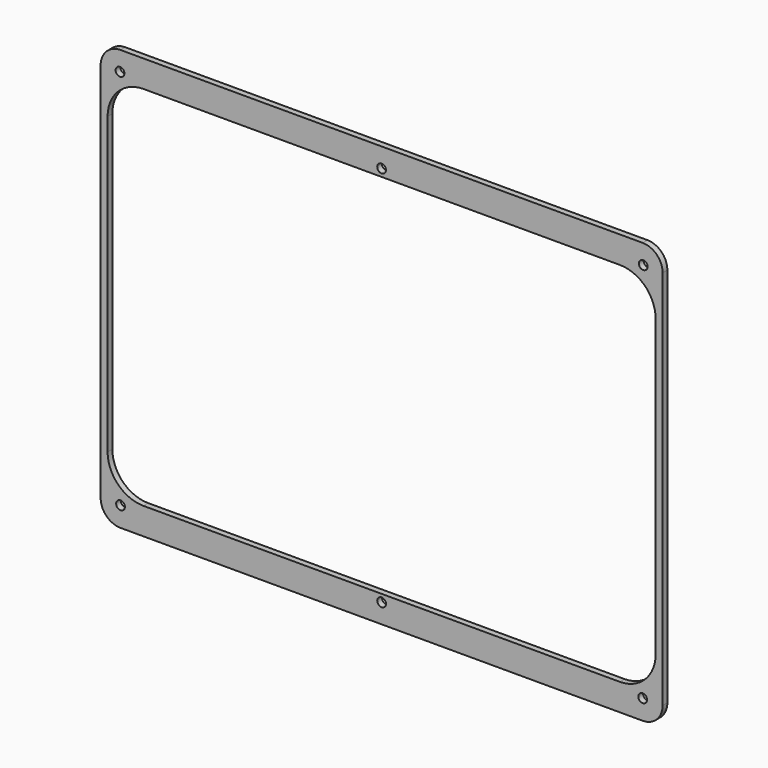
from build123d import *

# Parameters (mm, degrees)
F1_DEPTH = 3
F2_D     = 4.4


with BuildPart() as f1:
    # F0 (on Front) → F1 (new body)
    with BuildSketch(Plane.XZ):
        with BuildLine():
            Line((-131.25, -105.75), (131.25, -105.75))
            ThreePointArc((131.25, -105.75), (138.3210678119, -102.8210678119), (141.25, -95.75))
            Line((141.25, -95.75), (141.25, 95.75))
            ThreePointArc((141.25, 95.75), (138.3210678119, 102.8210678119), (131.25, 105.75))
            Line((131.25, 105.75), (-131.25, 105.75))
            ThreePointArc((-131.25, 105.75), (-138.3210678119, 102.8210678119), (-141.25, 95.75))
            Line((-141.25, 95.75), (-141.25, -95.75))
            ThreePointArc((-141.25, -95.75), (-138.3210678119, -102.8210678119), (-131.25, -105.75))
        make_face()
        with BuildLine():
            ThreePointArc((137.75, -74.25), (132.4779220614, -86.9779220614), (119.75, -92.25))
            Line((119.75, -92.25), (-119.75, -92.25))
            ThreePointArc((-119.75, -92.25), (-132.4779220614, -86.9779220614), (-137.75, -74.25))
            Line((-137.75, -74.25), (-137.75, 74.25))
            ThreePointArc((-137.75, 74.25), (-132.4779220614, 86.9779220614), (-119.75, 92.25))
            Line((-119.75, 92.25), (119.75, 92.25))
            ThreePointArc((119.75, 92.25), (132.4779220614, 86.9779220614), (137.75, 74.25))
            Line((137.75, 74.25), (137.75, -74.25))
        make_face(mode=Mode.SUBTRACT)
    extrude(amount=F1_DEPTH)

    # F2 (through all)
    with Locations(Plane(origin=(0, 0, 0), x_dir=(1, 0, 0), z_dir=(0, 1, 0))):
        with Locations((-131.5, -96), (0, -96), (131.5, -96), (131.25, 95.75), (0, 96), (-131.25, 95.75)):
            Hole(F2_D / 2)


solid = f1.part
